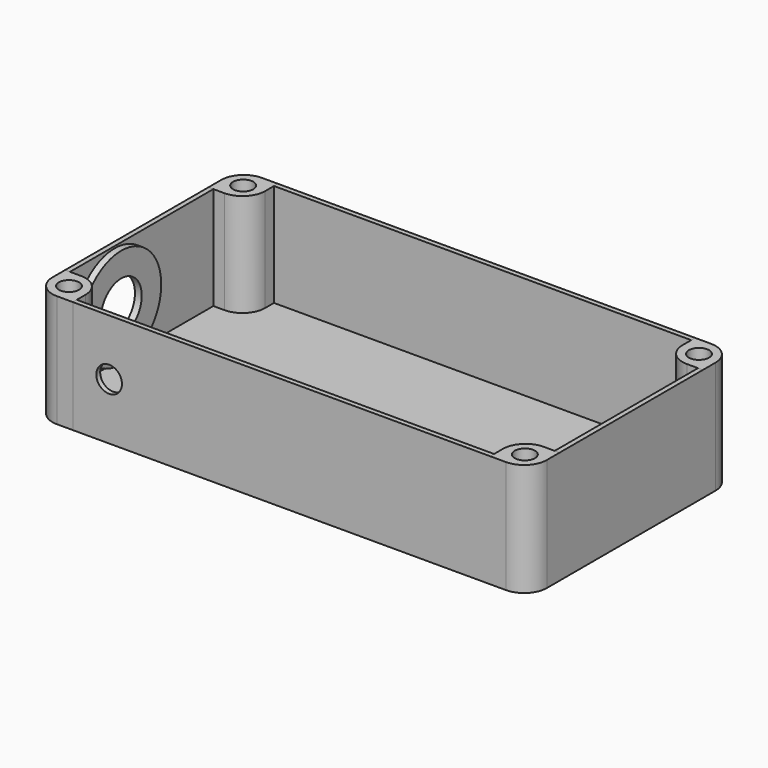
from build123d import *

# Parameters (mm, degrees)
F1_DEPTH  = 2.156
F3_DEPTH  = 24.85
F4_R      = 2.2365
F5_DEPTH  = 24.85
F6_R      = 2.2365
F6_R_2    = 1.474
F7_DEPTH  = 12.28
F9_D      = 5.669
F9_DEPTH  = 28.251
F11_D     = 22.05
F11_DEPTH = 54.501
F12_R     = 11.025
F12_R_2   = 5.65
F13_DEPTH = 1.5


with BuildPart() as f1:
    # F0 (on Top) → F1 (new body)
    with BuildSketch(Plane.XY):
        with BuildLine():
            Line((-49.5, -28.25), (49.5, -28.25))
            ThreePointArc((49.5, -28.25), (53.0355339059, -26.7855339059), (54.5, -23.25))
            Line((54.5, -23.25), (54.5, 23.25))
            ThreePointArc((54.5, 23.25), (53.0355339059, 26.7855339059), (49.5, 28.25))
            Line((49.5, 28.25), (-49.5, 28.25))
            ThreePointArc((-49.5, 28.25), (-53.0355339059, 26.7855339059), (-54.5, 23.25))
            Line((-54.5, 23.25), (-54.5, -23.25))
            ThreePointArc((-54.5, -23.25), (-53.0355339059, -26.7855339059), (-49.5, -28.25))
        make_face()
    extrude(amount=F1_DEPTH)


with BuildPart() as f3:
    # F2 (on Top) → F3 (new body)
    with BuildSketch(Plane.XY):
        with BuildLine():
            Line((-49.5, -28.25), (49.5, -28.25))
            ThreePointArc((49.5, -28.25), (53.0355339059, -26.7855339059), (54.5, -23.25))
            Line((54.5, -23.25), (54.5, 23.25))
            ThreePointArc((54.5, 23.25), (53.0355339059, 26.7855339059), (49.5, 28.25))
            Line((49.5, 28.25), (-49.5, 28.25))
            ThreePointArc((-49.5, 28.25), (-53.0355339059, 26.7855339059), (-54.5, 23.25))
            Line((-54.5, 23.25), (-54.5, -23.25))
            ThreePointArc((-54.5, -23.25), (-53.0355339059, -26.7855339059), (-49.5, -28.25))
        make_face()
        with BuildLine():
            Line((-48.422, 27.17), (48.422, 27.17))
            ThreePointArc((48.422, 27.17), (51.9575339059, 25.7055339059), (53.422, 22.17))
            Line((53.422, 22.17), (53.422, -22.17))
            ThreePointArc((53.422, -22.17), (51.9575339059, -25.7055339059), (48.422, -27.17))
            Line((48.422, -27.17), (-48.422, -27.17))
            ThreePointArc((-48.422, -27.17), (-51.9575339059, -25.7055339059), (-53.422, -22.17))
            Line((-53.422, -22.17), (-53.422, 22.17))
            ThreePointArc((-53.422, 22.17), (-51.9575339059, 25.7055339059), (-48.422, 27.17))
        make_face(mode=Mode.SUBTRACT)
    extrude(amount=F3_DEPTH)

    # F9 (through all, one way)
    with BuildSketch(Plane(origin=(0, 0, 0), x_dir=(1, 0, 0), z_dir=(0, 1, 0))):
        with Locations((-38.0002260208, -12.4695785344)):
            Circle(F9_D / 2)
    extrude(amount=-F9_DEPTH, mode=Mode.SUBTRACT)

    # F11 (through all, one way)
    with BuildSketch(Plane.YZ):
        with Locations((-7.439928595, 13.3931897581)):
            Circle(F11_D / 2)
    extrude(amount=-F11_DEPTH, mode=Mode.SUBTRACT)


with BuildPart() as f5:
    # F4 (on Top) → F5 (new body)
    with BuildSketch(Plane.XY):
        with BuildLine():
            Line((45.9988752827, -28.245583877), (49.4988752827, -28.245583877))
            ThreePointArc((49.4988752827, -28.245583877), (53.0344091886, -26.7811177829), (54.4988752827, -23.245583877))
            Line((54.4988752827, -23.245583877), (54.4988752827, -19.745583877))
            Line((54.4988752827, -19.745583877), (50.9988752827, -19.745583877))
            ThreePointArc((50.9988752827, -19.745583877), (47.4633413768, -21.210049971), (45.9988752827, -24.745583877))
            Line((45.9988752827, -24.745583877), (45.9988752827, -28.245583877))
        make_face()
        with Locations((50.2488752827, -23.995583877)):
            Circle(F4_R, mode=Mode.SUBTRACT)
    extrude(amount=F5_DEPTH)


with BuildPart() as f5b:
    # F4 (on Top) → F5, piece 2 (new body)
    with BuildSketch(Plane.XY):
        with BuildLine():
            Line((50.9913948998, 19.7500952035), (54.4913948998, 19.7500952035))
            Line((54.4913948998, 19.7500952035), (54.4913948998, 23.2500952035))
            ThreePointArc((54.4913948998, 23.2500952035), (53.0269288057, 26.7856291095), (49.4913948998, 28.2500952035))
            Line((49.4913948998, 28.2500952035), (45.9913948998, 28.2500952035))
            Line((45.9913948998, 28.2500952035), (45.9913948998, 24.7500952035))
            ThreePointArc((45.9913948998, 24.7500952035), (47.4558609939, 21.2145612976), (50.9913948998, 19.7500952035))
        make_face()
        with Locations((50.2413948998, 24.0000952035)):
            Circle(F4_R, mode=Mode.SUBTRACT)
    extrude(amount=F5_DEPTH)


with BuildPart() as f5c:
    # F4 (on Top) → F5, piece 3 (new body)
    with BuildSketch(Plane.XY):
        with BuildLine():
            Line((-49.4995961264, -28.2530474961), (-45.9995961264, -28.2530474961))
            Line((-45.9995961264, -28.2530474961), (-45.9995961264, -24.7530474961))
            ThreePointArc((-45.9995961264, -24.7530474961), (-47.4640622204, -21.2175135901), (-50.9995961264, -19.7530474961))
            Line((-50.9995961264, -19.7530474961), (-54.4995961264, -19.7530474961))
            Line((-54.4995961264, -19.7530474961), (-54.4995961264, -23.2530474961))
            ThreePointArc((-54.4995961264, -23.2530474961), (-53.0351300323, -26.788581402), (-49.4995961264, -28.2530474961))
        make_face()
        with Locations((-50.2495961264, -24.0030474961)):
            Circle(F4_R, mode=Mode.SUBTRACT)
    extrude(amount=F5_DEPTH)


with BuildPart() as f5d:
    # F4 (on Top) → F5, piece 4 (new body)
    with BuildSketch(Plane.XY):
        with BuildLine():
            Line((-54.4906740561, 19.7485361695), (-50.9906740561, 19.7485361695))
            ThreePointArc((-50.9906740561, 19.7485361695), (-47.4551401502, 21.2130022636), (-45.9906740561, 24.7485361695))
            Line((-45.9906740561, 24.7485361695), (-45.9906740561, 28.2485361695))
            Line((-45.9906740561, 28.2485361695), (-49.4906740561, 28.2485361695))
            ThreePointArc((-49.4906740561, 28.2485361695), (-53.026207962, 26.7840700755), (-54.4906740561, 23.2485361695))
            Line((-54.4906740561, 23.2485361695), (-54.4906740561, 19.7485361695))
        make_face()
        with Locations((-50.2406740561, 23.9985361695)):
            Circle(F4_R, mode=Mode.SUBTRACT)
    extrude(amount=F5_DEPTH)


with BuildPart() as f7:
    # F6 (on Top) → F7 (new body)
    with BuildSketch(Plane.XY):
        with Locations((-50.2406740561, 23.9985361695)):
            Circle(F6_R)
        with Locations((-50.2406740561, 23.9985361695)):
            Circle(F6_R_2, mode=Mode.SUBTRACT)
    extrude(amount=F7_DEPTH)


with BuildPart() as f7b:
    # F6 (on Top) → F7, piece 2 (new body)
    with BuildSketch(Plane.XY):
        with Locations((50.2413948998, 24.0000952035)):
            Circle(F6_R)
        with Locations((50.2413948998, 24.0000952035)):
            Circle(F6_R_2, mode=Mode.SUBTRACT)
    extrude(amount=F7_DEPTH)


with BuildPart() as f7c:
    # F6 (on Top) → F7, piece 3 (new body)
    with BuildSketch(Plane.XY):
        with Locations((50.2488752827, -23.995583877)):
            Circle(F6_R)
        with Locations((50.2488752827, -23.995583877)):
            Circle(F6_R_2, mode=Mode.SUBTRACT)
    extrude(amount=F7_DEPTH)


with BuildPart() as f7d:
    # F6 (on Top) → F7, piece 4 (new body)
    with BuildSketch(Plane.XY):
        with Locations((-50.2495961264, -24.0030474961)):
            Circle(F6_R)
        with Locations((-50.2495961264, -24.0030474961)):
            Circle(F6_R_2, mode=Mode.SUBTRACT)
    extrude(amount=F7_DEPTH)


with BuildPart() as f13:
    # F12 (on Right) → F13 (new body)
    with BuildSketch(Plane.YZ):
        with Locations((-7.4144070968, 13.3807938546)):
            Circle(F12_R)
        with Locations((-7.4144070968, 13.3807938546)):
            Circle(F12_R_2, mode=Mode.SUBTRACT)
    extrude(amount=-F13_DEPTH)


with BuildPart() as f13_1:
    # F14: moved
    add(f13.part.moved(Location((-52, 0, 0))))


solid = Compound([f1.part, f3.part, f5.part, f5b.part, f5c.part, f5d.part, f7.part, f7b.part, f7c.part, f7d.part, f13_1.part])
